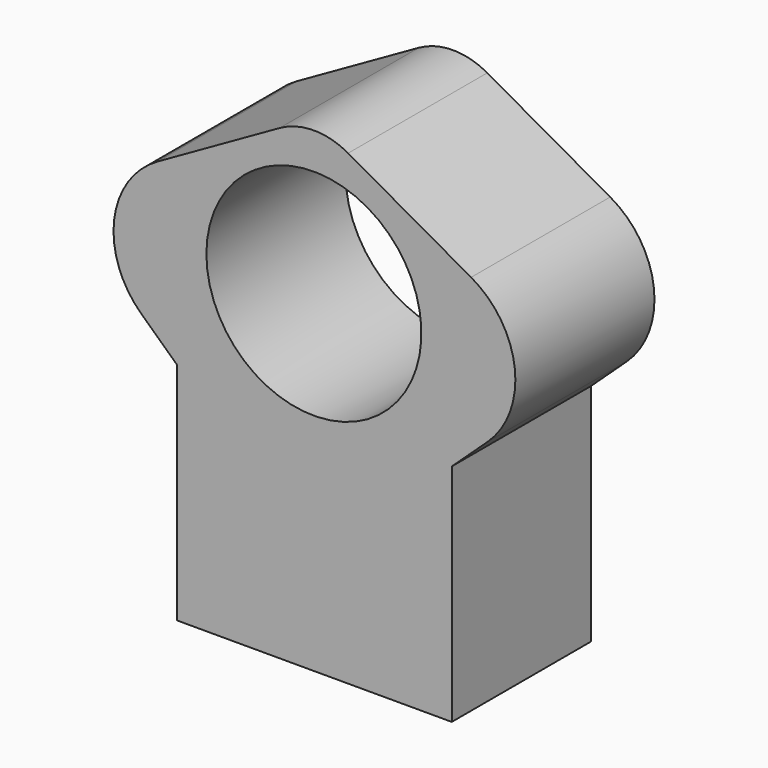
from build123d import *

# Parameters (mm, degrees)
F1_DEPTH = 50.8
F2_R     = 20.32
F3_R     = 25.4
F4_R     = 25.4
F5_R     = 31.402623
F6_DEPTH = 50.801


with BuildPart() as f1:
    # F0 (on Front) → F1 (new body)
    with BuildSketch(Plane.XZ):
        Polygon((-39.967455, -65.717764), (40.282056, -65.717764), (40.282056, 0), (76.221071, 33.392798), (0, 76.340705), (-75.760126, 33.392798), (-39.967455, 0), align=None)
    extrude(amount=-F1_DEPTH)

    # F2
    f2_edges = [f1.edges().sort_by_distance(p)[0] for p in [
        (0, 25.4, 76.340705),
    ]]
    fillet(f2_edges, radius=F2_R)

    # F3
    f3_edges = [f1.edges().sort_by_distance(p)[0] for p in [
        (76.221071, 25.4, 33.392798),
    ]]
    fillet(f3_edges, radius=F3_R)

    # F4
    f4_edges = [f1.edges().sort_by_distance(p)[0] for p in [
        (-75.760126, 25.4, 33.392798),
    ]]
    fillet(f4_edges, radius=F4_R)

    # F5 (on face) → F6 (cut, through all)
    with BuildSketch(Plane(origin=(0, 50.8, 0), x_dir=(-1, 0, 0), z_dir=(0, 1, 0))):
        with Locations((0, 31.338445)):
            Circle(F5_R)
    extrude(amount=-F6_DEPTH, mode=Mode.SUBTRACT)


solid = f1.part
